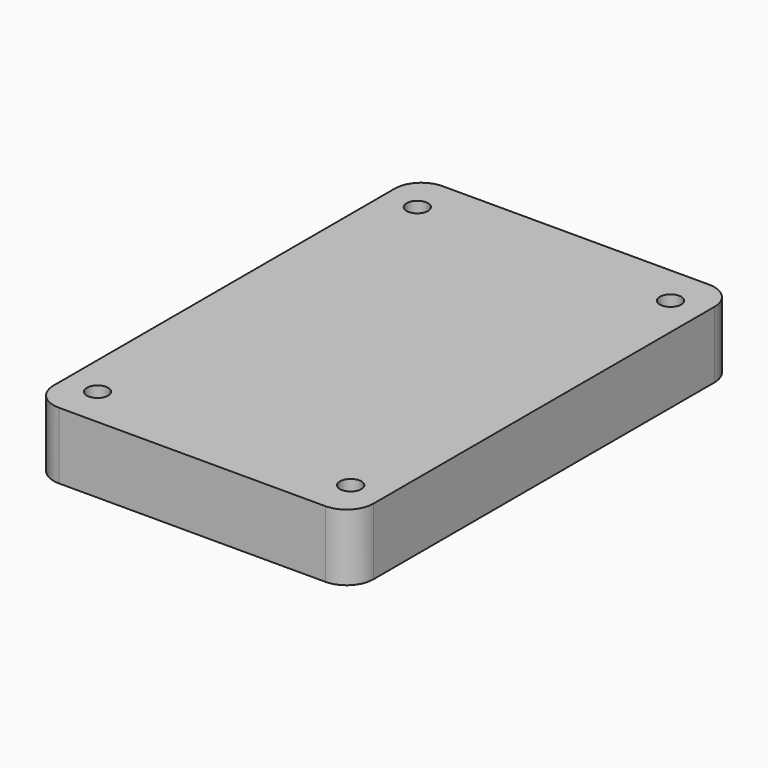
from build123d import *

# Parameters (mm, degrees)
F0_R     = 1.6
F1_DEPTH = 10


with BuildPart() as f1:
    # F0 (on Top) → F1 (new body)
    with BuildSketch(Plane.XY):
        with BuildLine():
            Line((20, 36), (0, 36))
            Line((0, 36), (-20, 36))
            ThreePointArc((-20, 36), (-22.828427, 34.828427), (-24, 32))
            Line((-24, 32), (-24, 0))
            Line((-24, 0), (-24, -32))
            ThreePointArc((-24, -32), (-22.828427, -34.828427), (-20, -36))
            Line((-20, -36), (0, -36))
            Line((0, -36), (20, -36))
            ThreePointArc((20, -36), (22.828427, -34.828427), (24, -32))
            Line((24, -32), (24, 0))
            Line((24, 0), (24, 32))
            ThreePointArc((24, 32), (22.828427, 34.828427), (20, 36))
        make_face()
        with Locations((-19, -30)):
            Circle(F0_R, mode=Mode.SUBTRACT)
        with Locations((19, -30)):
            Circle(F0_R, mode=Mode.SUBTRACT)
        with Locations((-19, 30)):
            Circle(F0_R, mode=Mode.SUBTRACT)
        with Locations((19, 30)):
            Circle(F0_R, mode=Mode.SUBTRACT)
    extrude(amount=F1_DEPTH)


solid = f1.part
